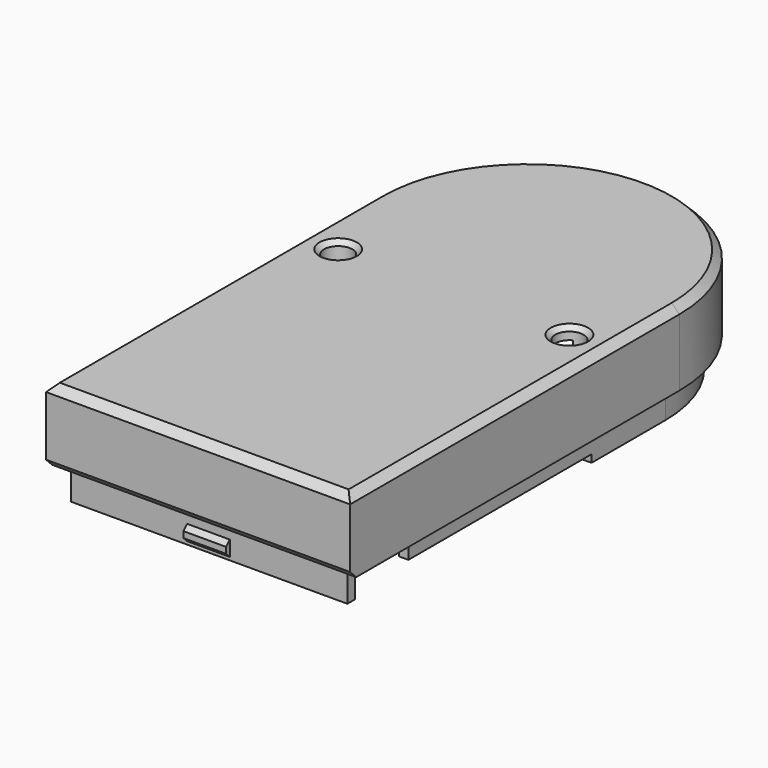
from build123d import *

# Parameters (mm, degrees)
PAD002_DEPTH    = 2
PAD003_DEPTH    = 4.9
POCKET005_DEPTH = 4.1
POCKET006_DEPTH = 11
SKETCH011_W     = 10
SKETCH011_H     = 3.5
POCKET007_DEPTH = 5
PAD004_DEPTH    = 1.4
PAD006_DEPTH    = 2
SKETCH013_R     = 0.925
POCKET009_DEPTH = 5
CHAMFER_SIZE    = 0.5
CHAMFER001_SIZE = 0.5
CHAMFER006_SIZE = 0.3


with BuildPart() as part:
    # Sketch008 (on Face1 of ReferencePocket001) → Pad002 (new body)
    with BuildSketch(Plane.XY.offset(3.9)):
        with BuildLine():
            Line((0.05, 0.05), (18.15, 0.05))
            Line((18.15, 0.05), (18.15, 26.100026))
            ThreePointArc((18.15, 26.100026), (9.1, 35.150026), (0.05, 26.100026))
            Line((0.05, 0.05), (0.05, 26.100026))
        make_face()
        with BuildLine():
            Line((0.65, 0.65), (17.55, 0.65))
            Line((17.55, 0.65), (17.55, 26.100026))
            ThreePointArc((17.55, 26.100026), (9.1, 34.550026), (0.65, 26.100026))
            Line((0.65, 0.65), (0.65, 26.100026))
        make_face(mode=Mode.SUBTRACT)
    extrude(amount=-PAD002_DEPTH)

    # Sketch009 (on Face9 of Pad002) → Pad003 (join)
    with BuildSketch(Plane.XY.offset(3.9)):
        with BuildLine():
            Line((-0.86, -0.86), (19.06, -0.86))
            Line((19.06, -0.86), (19.06, 26.10003))
            ThreePointArc((19.06, 26.10003), (9.1, 36.060031), (-0.86, 26.100031))
            Line((-0.86, -0.86), (-0.86, 26.100031))
        make_face()
    extrude(amount=PAD003_DEPTH)

    # Pad003 Face16 → Pocket005 (cut)
    with BuildSketch(Plane(origin=(9.1, 16.748749, 3.9), x_dir=(0, -1, 0), z_dir=(0, 0, -1))):
        with BuildLine():
            Line((16.098749, 8.45), (-9.351278, 8.45))
            ThreePointArc((-9.351278, 8.45), (-17.801278, 0), (-9.351278, -8.45))
            Line((-9.351278, -8.45), (16.098749, -8.45))
            Line((16.098749, -8.45), (16.098749, 8.45))
        make_face()
    extrude(amount=-POCKET005_DEPTH, mode=Mode.SUBTRACT)

    # Sketch010 (on Face8 of Pocket005) → Pocket006 (cut)
    with BuildSketch(Plane.YZ.offset(18.15)):
        Polygon((0.66, 1.9), (5.05, 1.9), (20.05, 1.9), (20.05, 2.4), (5.05, 2.4), (5.05, 5.5), (0.66, 5.5), (0.66, 1.8), (0.05, 1.8), (0.05, 1.9), align=None)
    extrude(amount=-POCKET006_DEPTH, mode=Mode.SUBTRACT)

    # Sketch011 (on Face4 of Pad002) → Pocket007 (cut)
    with BuildSketch(Plane(origin=(0.05, 0, 0), x_dir=(0, -1, 0), z_dir=(-1, 0, 0))):
        with Locations((-14, 1.75)):
            Rectangle(SKETCH011_W, SKETCH011_H)
    extrude(amount=-POCKET007_DEPTH, mode=Mode.SUBTRACT)

    # Sketch012 (on Face4 of Pad002) → Pad004 (join, symmetric)
    with BuildSketch(Plane(origin=(9.05, 0, 0), x_dir=(0, -1, 0), z_dir=(-1, 0, 0))):
        Polygon((-0.05, 2.1), (0.25, 2.4), (0.25, 2.8), (-0.05, 3.1), align=None)
        Polygon((-35.450026, 2.4), (-35.450026, 2.8), (-35.150026, 3.1), (-34.650026, 3.1), (-34.650026, 2.1), (-35.150026, 2.1), align=None)
    extrude(amount=PAD004_DEPTH, both=True)

    # Sketch014 (on Face47 of Pad004) → Pad006 (join)
    with BuildSketch(Plane(origin=(0, 0, 8), x_dir=(1, 0, 0), z_dir=(0, 0, -1))):
        with BuildLine():
            Line((17.55, -26.100026), (17.55, -17.081305))
            Line((17.55, -17.081305), (16.25, -17.081305))
            Line((16.25, -17.081305), (16.25, -21.596694))
            ThreePointArc((17.55, -26.100026), (17.218497, -23.756418), (16.25, -21.596694))
        make_face()
        with BuildLine():
            Line((0.65, -26.100026), (0.65, -17.081305))
            Line((0.65, -17.081305), (1.95, -17.081305))
            Line((1.95, -17.081305), (1.95, -21.596694))
            ThreePointArc((1.95, -21.596694), (0.981503, -23.756418), (0.65, -26.100026))
        make_face()
    extrude(amount=PAD006_DEPTH)

    # Sketch013 (on Face20 of Pocket005) → Pocket009 (cut, symmetric)
    with BuildSketch(Plane(origin=(0, 0, 8), x_dir=(1, 0, 0), z_dir=(0, 0, -1))):
        with Locations((1.525, -20.081305)):
            Circle(SKETCH013_R)
        with Locations((16.675, -20.081305)):
            Circle(SKETCH013_R)
    extrude(amount=POCKET009_DEPTH, both=True, mode=Mode.SUBTRACT)

    # Chamfer
    chamfer_edges = [part.edges().sort_by_distance(p)[0] for p in [
        (9.1, -0.86, 3.9),
    ]]
    chamfer(chamfer_edges, length=CHAMFER_SIZE)

    # Chamfer001
    chamfer001_edges = [part.edges().sort_by_distance(p)[0] for p in [
        (-0.86, 12.620015, 8.8),
        (9.1, 36.060031, 8.8),
        (19.06, 12.620015, 8.8),
        (9.1, -0.86, 8.8),
    ]]
    chamfer(chamfer001_edges, length=CHAMFER001_SIZE)

    # Chamfer006
    chamfer006_edges = [part.edges().sort_by_distance(p)[0] for p in [
        (15.75, 20.081305, 8.8),
        (0.6, 20.081305, 8.8),
    ]]
    chamfer(chamfer006_edges, length=CHAMFER006_SIZE)


solid = part.part
